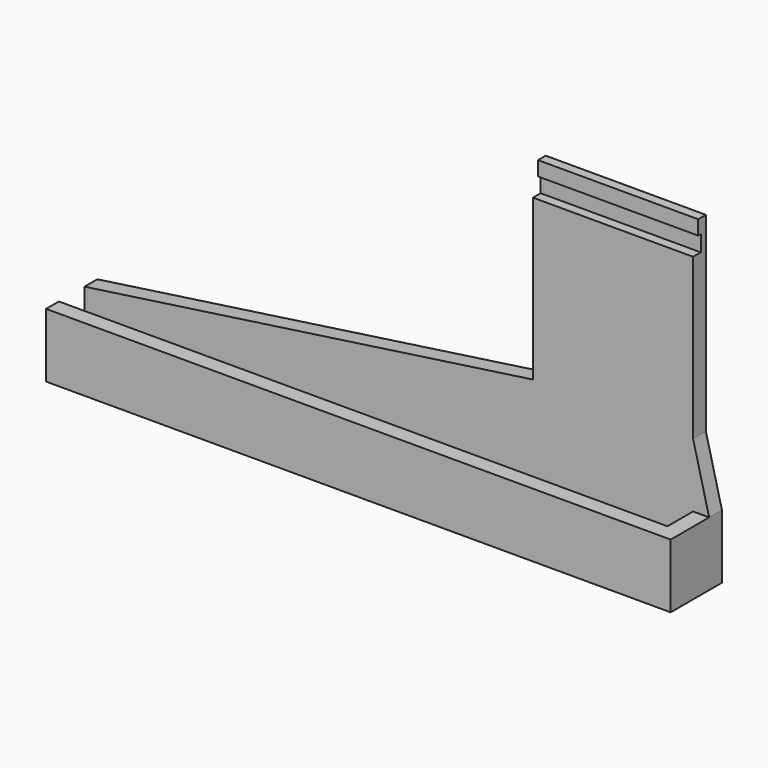
from build123d import *

# Parameters (mm, degrees)
F0_W      = 190
F0_H      = 5
F1_DEPTH  = 20
F2_W      = 190
F2_H      = 10
F3_DEPTH  = 10
F4_W      = 50
F4_H      = 5
F5_DEPTH  = 70
F7_DEPTH  = 5
F8_W      = 50
F8_H      = 2
F9_DEPTH  = 5
F10_W     = 50
F10_H     = 3
F11_DEPTH = 4.5


with BuildPart() as f1:
    # F0 (on Top) → F1 (new body)
    with BuildSketch(Plane.XY):
        with Locations((95, 2.5)):
            Rectangle(F0_W, F0_H)
        Polygon((190, 5), (190, 0), (195, 0), (195, 20), (190, 20), (190, 15), align=None)
        with Locations((95, 17.5)):
            Rectangle(F0_W, F0_H)
    extrude(amount=F1_DEPTH)

    # F2 (on Top) → F3 (join)
    with BuildSketch(Plane.XY):
        with Locations((95, 10)):
            Rectangle(F2_W, F2_H)
    extrude(amount=F3_DEPTH)

    # F4 (on face) → F5 (join)
    with BuildSketch(Plane.XY.offset(20)):
        with Locations((165, 17.5)):
            Rectangle(F4_W, F4_H)
    extrude(amount=F5_DEPTH)

    # F6 (on face) → F7 (join)
    with BuildSketch(Plane(origin=(0, 20, 0), x_dir=(-1, 0, 0), z_dir=(0, 1, 0))):
        Polygon((-190, 40), (-195, 20), (-190, 20), align=None)
        Polygon((-140, 40), (-140, 20), (0, 20), align=None)
    extrude(amount=-F7_DEPTH)

    # F8 (on face) → F9 (join)
    with BuildSketch(Plane.XY.offset(90)):
        with Locations((165, 19)):
            Rectangle(F8_W, F8_H)
    extrude(amount=F9_DEPTH)

    # F10 (on face) → F11 (join)
    with BuildSketch(Plane.XY.offset(95)):
        with Locations((165, 18.5)):
            Rectangle(F10_W, F10_H)
    extrude(amount=F11_DEPTH)


solid = f1.part
